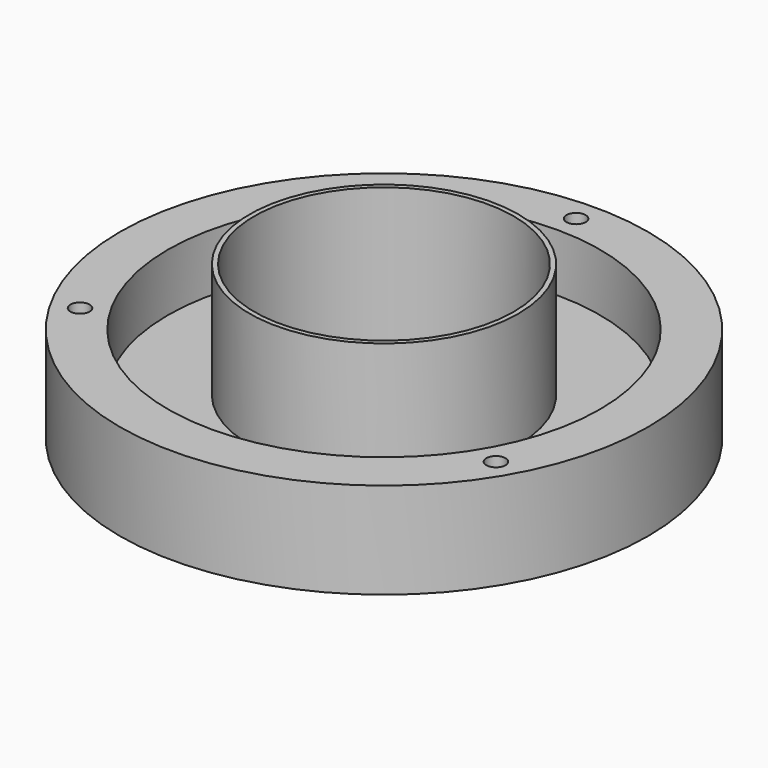
from build123d import *

# Parameters (mm, degrees)
SKETCH_R      = 27.5
SKETCH_R_2    = 22.5
SKETCH_R_3    = 1
PAD_DEPTH     = 10
SKETCH001_R   = 22.5
SKETCH001_R_2 = 14
PAD001_DEPTH  = 4
SKETCH004_R   = 14
SKETCH004_R_2 = 13.5
PAD004_DEPTH  = 16


with BuildPart() as part:
    # Sketch → Pad (new body)
    with BuildSketch(Plane.XY):
        Circle(SKETCH_R)
        Circle(SKETCH_R_2, mode=Mode.SUBTRACT)
        with Locations((0, 25)):
            Circle(SKETCH_R_3, mode=Mode.SUBTRACT)
        with Locations((-21.650635, -12.5)):
            Circle(SKETCH_R_3, mode=Mode.SUBTRACT)
        with Locations((21.650635, -12.5)):
            Circle(SKETCH_R_3, mode=Mode.SUBTRACT)
    extrude(amount=PAD_DEPTH)

    # Sketch001 → Pad001 (join)
    with BuildSketch(Plane.XY):
        Circle(SKETCH001_R)
        Circle(SKETCH001_R_2, mode=Mode.SUBTRACT)
    extrude(amount=PAD001_DEPTH)

    # Sketch004 → Pad004 (join)
    with BuildSketch(Plane.XY):
        Circle(SKETCH004_R)
        Circle(SKETCH004_R_2, mode=Mode.SUBTRACT)
    extrude(amount=PAD004_DEPTH)


solid = part.part
